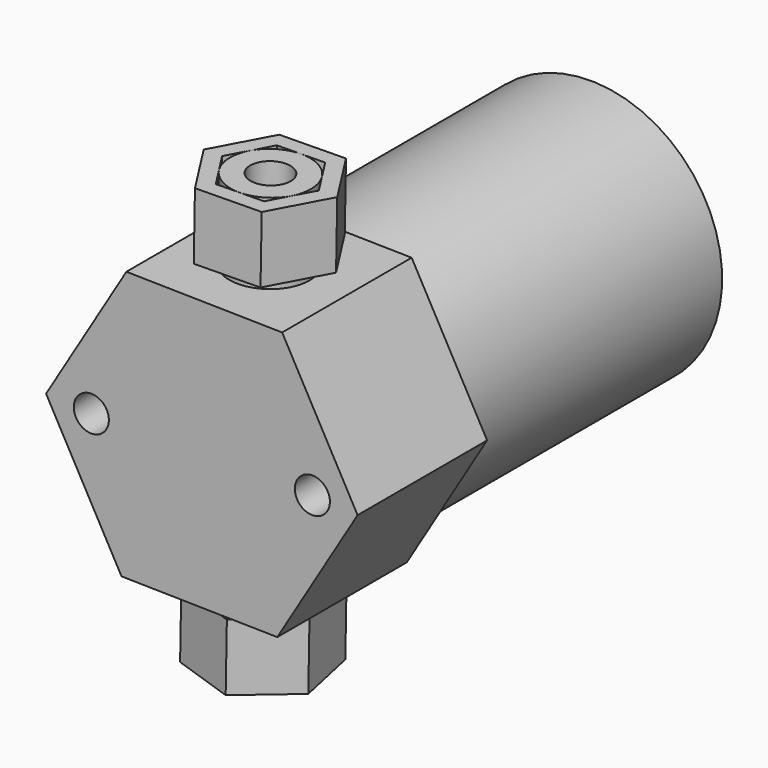
from build123d import *

# Parameters (mm, degrees)
F1_DEPTH  = 38.1
F2_R      = 9.525
F2_R_2    = 4.7625
F3_DEPTH  = 19.05
F5_DEPTH  = 15.748
F6_R      = 9.525
F6_R_2    = 4.7625
F7_DEPTH  = 19.05
F9_DEPTH  = 15.748
F10_R     = 31.015007
F11_DEPTH = 76.2
F12_R     = 4.1275
F13_DEPTH = 9.525


with BuildPart() as f1:
    # F0 (on Front) → F1 (new body)
    with BuildSketch(Plane.XZ):
        Polygon((17.756948, -32.074509), (36.655814, -0.659287), (18.898866, 31.415223), (-17.756948, 32.074509), (-36.655814, 0.659287), (-18.898866, -31.415223), align=None)
    extrude(amount=F1_DEPTH)

    # F12 (on face) → F13 (cut)
    with BuildSketch(Plane.XZ.offset(38.1)):
        with Locations((-26.010668, 0)):
            Circle(F12_R)
        with Locations((26.010668, 0)):
            Circle(F12_R)
    extrude(amount=-F13_DEPTH, mode=Mode.SUBTRACT)


with BuildPart() as f3:
    # F2 (on face) → F3 (new body)
    with BuildSketch(Plane(origin=(-0.570959, 0, -31.744866), x_dir=(0.999838, 0, -0.017983), z_dir=(-0.017983, 0, -0.999838))):
        with Locations((0, 19.05)):
            Circle(F2_R)
        with Locations((0, 19.05)):
            Circle(F2_R_2, mode=Mode.SUBTRACT)
    extrude(amount=F3_DEPTH)


with BuildPart() as f5:
    # F4 (on face) → F5 (new body)
    with BuildSketch(Plane(origin=(-0.913534, 0, -50.791785), x_dir=(0.999838, 0, -0.017983), z_dir=(-0.017983, 0, -0.999838))):
        Polygon((11.291685, 8.856905), (14.473322, 23.732339), (3.181636, 33.925434), (-11.291685, 29.243095), (-14.473322, 14.367661), (-3.181636, 4.174566), align=None)
        Polygon((3.181636, 29.57828), (10.708577, 21.558762), (7.52694, 11.030482), (-3.181636, 8.52172), (-10.708577, 16.541238), (-7.52694, 27.069518), align=None, mode=Mode.SUBTRACT)
    extrude(amount=-F5_DEPTH)


with BuildPart() as f7:
    # F6 (on face) → F7 (new body)
    with BuildSketch(Plane(origin=(0.570959, 0, 31.744866), x_dir=(0.999838, 0, -0.017983), z_dir=(0.017983, 0, 0.999838))):
        with Locations((0, -19.05)):
            Circle(F6_R)
        with Locations((0, -19.05)):
            Circle(F6_R_2, mode=Mode.SUBTRACT)
    extrude(amount=F7_DEPTH)


with BuildPart() as f9:
    # F8 (on face) → F9 (new body)
    with BuildSketch(Plane(origin=(0.913534, 0, 50.791785), x_dir=(0.999838, 0, -0.017983), z_dir=(0.017983, 0, 0.999838))):
        Polygon((8.175178, -31.843901), (15.167432, -18.367039), (6.992254, -5.573138), (-8.175178, -6.256099), (-15.167432, -19.732961), (-6.992254, -32.526862), align=None)
        Polygon((5.065236, -9.287271), (10.98739, -18.555258), (5.922154, -28.317988), (-5.065236, -28.812729), (-10.98739, -19.544742), (-5.922154, -9.782012), align=None, mode=Mode.SUBTRACT)
    extrude(amount=-F9_DEPTH)


with BuildPart() as f11:
    # F10 (on face) → F11 (new body)
    with BuildSketch(Plane(origin=(0, 0, 0), x_dir=(-1, 0, 0), z_dir=(0, 1, 0))):
        Circle(F10_R)
    extrude(amount=F11_DEPTH)


solid = Compound([f1.part, f3.part, f5.part, f7.part, f9.part, f11.part])
